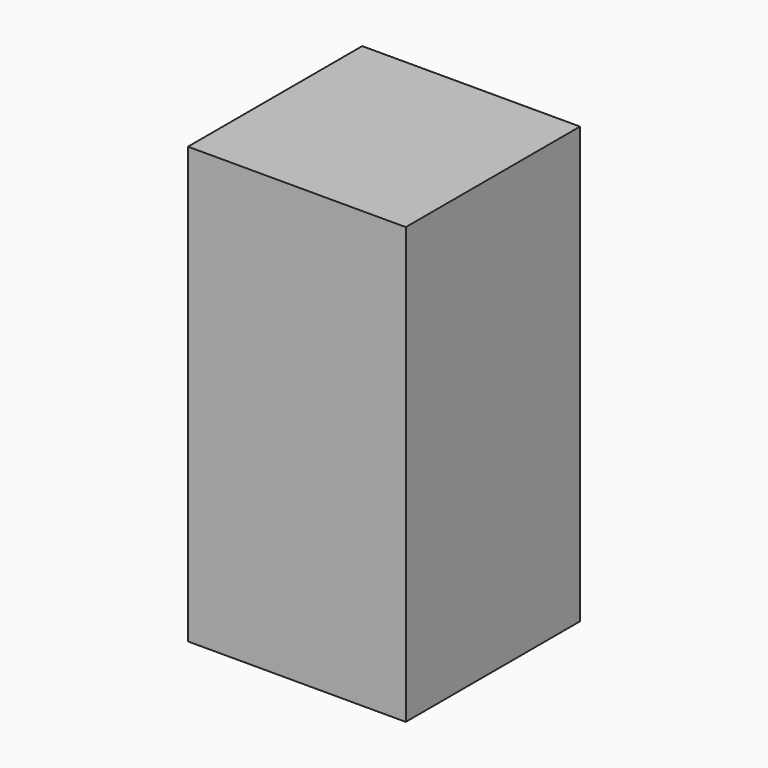
from build123d import *

# Parameters (mm, degrees)
SKETCH_W  = 40
SKETCH_H  = 40
PAD_DEPTH = 80


with BuildPart() as part:
    # Sketch → Pad (new body)
    with BuildSketch(Plane.XY):
        with Locations((20, 20)):
            Rectangle(SKETCH_W, SKETCH_H)
    extrude(amount=PAD_DEPTH)


solid = part.part
